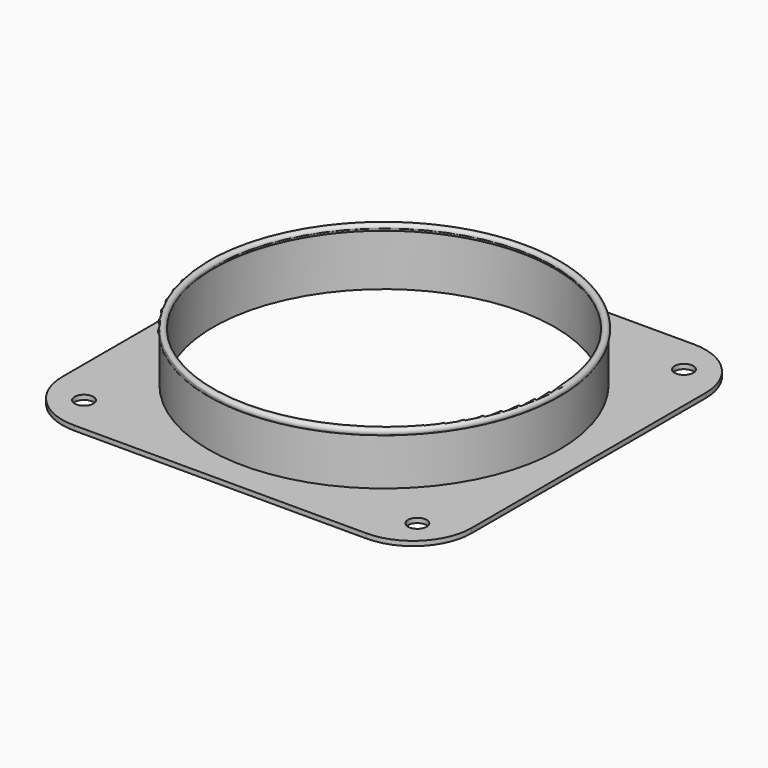
from build123d import *

# Parameters (mm, degrees)
F0_W     = 175
F0_H     = 175
F0_R     = 73
F1_DEPTH = 2
F2_R     = 75
F2_R_2   = 73
F3_DEPTH = 20
F6_R     = 25
F8_D     = 8


with BuildPart() as f1:
    # F0 (on Top) → F1 (new body)
    with BuildSketch(Plane.XY):
        Rectangle(F0_W, F0_H)
        Circle(F0_R, mode=Mode.SUBTRACT)
    extrude(amount=F1_DEPTH)

    # F2 (on face) → F3 (join)
    with BuildSketch(Plane.XY.offset(2)):
        Circle(F2_R)
        Circle(F2_R_2, mode=Mode.SUBTRACT)
    extrude(amount=F3_DEPTH)

    # F6
    f6_edges = [f1.edges().sort_by_distance(p)[0] for p in [
        (-87.5, -87.5, 1),
        (87.5, -87.5, 1),
        (87.5, 87.5, 1),
        (-87.5, 87.5, 1),
    ]]
    fillet(f6_edges, radius=F6_R)

    # F8 (through all)
    with Locations(Plane.XY.offset(2)):
        with Locations((-71.25, 71.25), (71.25, 71.25), (71.25, -71.25), (-71.25, -71.25)):
            Hole(F8_D / 2)


with BuildPart() as f5:
    # F4 (on Right) → F5 (revolve)
    with BuildSketch(Plane.YZ):
        with BuildLine():
            Line((-75, 22), (-73, 22))
            ThreePointArc((-73, 22), (-72.630694, 22.505662), (-72.5, 23.118034))
            ThreePointArc((-72.5, 23.118034), (-74.612372, 24.48734), (-75, 22))
        make_face()
    revolve(axis=Axis((0, 0, 16.390443), (0, 0, 1)))


solid = Compound([f1.part, f5.part])
